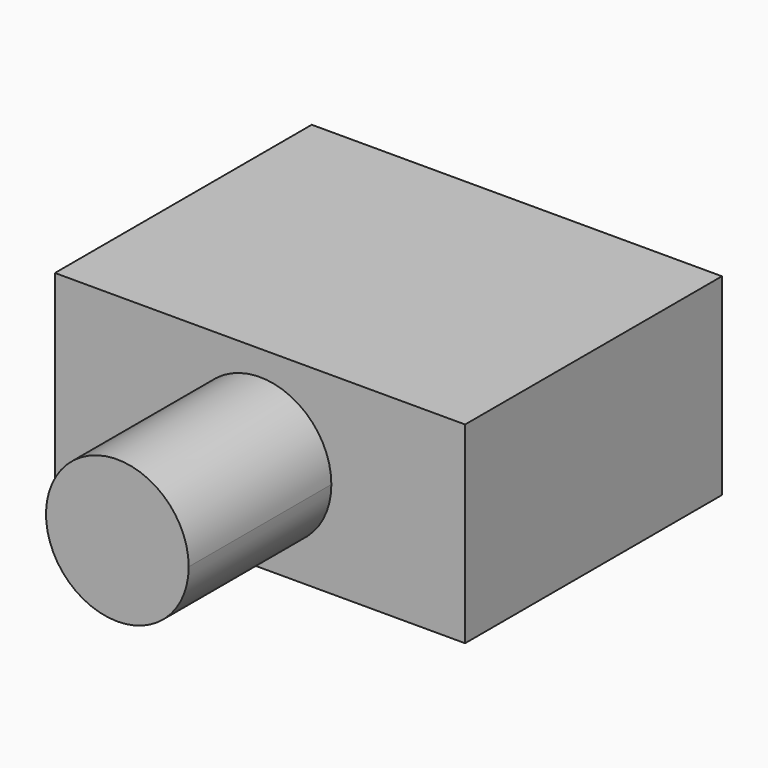
from build123d import *

# Parameters (mm, degrees)
F0_W     = 115
F0_H     = 90
F1_DEPTH = 54
F3_DEPTH = 50


with BuildPart() as f1:
    # F0 (on Top) → F1 (new body)
    with BuildSketch(Plane.XY):
        Rectangle(F0_W, F0_H)
    extrude(amount=F1_DEPTH)


with BuildPart() as f3:
    # F2 (on face) → F3 (new body)
    with BuildSketch(Plane.XZ.offset(45)):
        with BuildLine():
            ThreePointArc((0, 7), (14.142136, 12.857864), (20, 27))
            ThreePointArc((20, 27), (-14.142136, 41.142136), (0, 7))
        make_face()
    extrude(amount=F3_DEPTH)


solid = Compound([f1.part, f3.part])
